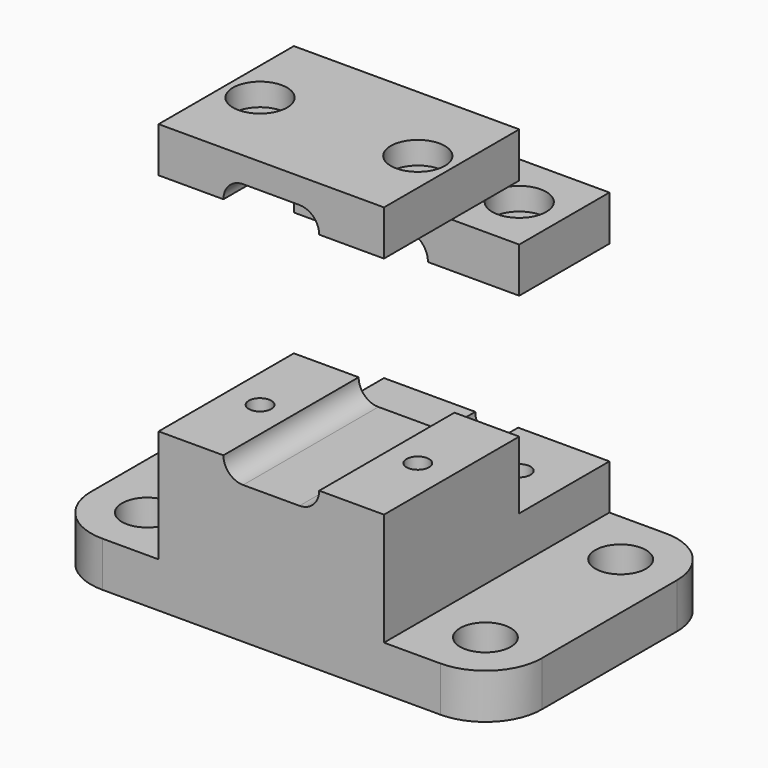
from build123d import *

# Parameters (mm, degrees)
F0_W              = 40
F0_H              = 25
F1_DEPTH          = 4
F2_D              = 4.5
F2_DEPTH          = 50
F2_TIP            = 1.3519363928
F3_W              = 20
F3_H              = 25
F4_DEPTH          = 10
F6_DEPTH          = 10
F8_W              = 20
F8_H              = 10
F9_DEPTH          = 4
F10_R             = 1.9
F11_DEPTH         = 10
F13_D             = 2
F13_DEPTH         = 50
F13_CBORE_D       = 4.8
F13_CBORE_DEPTH   = 2
F13_TIP           = 0.600860619
F13_2_D           = 2
F13_2_DEPTH       = 50
F13_2_CBORE_D     = 4.8
F13_2_CBORE_DEPTH = 2
F13_2_TIP         = 0.600860619
F15_W             = 20
F15_H             = 15
F16_DEPTH         = 4
F18_DEPTH         = 25
F20_D             = 2
F20_DEPTH         = 50
F20_CBORE_D       = 4.8
F20_CBORE_DEPTH   = 2
F20_TIP           = 0.600860619
F20_2_D           = 2
F20_2_DEPTH       = 50
F20_2_CBORE_D     = 4.8
F20_2_CBORE_DEPTH = 2
F20_2_TIP         = 0.600860619
F21_R             = 5


with BuildPart() as f1:
    # F0 (on Top) → F1 (new body)
    with BuildSketch(Plane.XY):
        Rectangle(F0_W, F0_H)
    extrude(amount=F1_DEPTH)

    # F2
    with Locations(Plane(origin=(0, 0, 0), x_dir=(1, 0, 0), z_dir=(0, 0, -1))):
        with Locations((-15, -7.5), (-15, 7.5), (15, 7.5), (15, -7.5)):
            Hole(F2_D / 2, depth=F2_DEPTH)
            with Locations((0, 0, -(F2_DEPTH + F2_TIP / 2))):  # 118° drill point
                Cone(0, F2_D / 2, F2_TIP, mode=Mode.SUBTRACT)

    # F3 (on face) → F4 (join)
    with BuildSketch(Plane.XY.offset(4)):
        Rectangle(F3_W, F3_H)
    extrude(amount=F4_DEPTH)

    # F5 (on face) → F6 (cut)
    with BuildSketch(Plane(origin=(0, 12.5, 0), x_dir=(-1, 0, 0), z_dir=(0, 1, 0))):
        with BuildLine():
            ThreePointArc((-1.9, 8), (0, 9.9), (1.9, 8))
            Line((1.9, 8), (10, 8))
            Line((10, 8), (10, 14))
            Line((10, 14), (-10, 14))
            Line((-10, 14), (-10, 8))
            Line((-10, 8), (-1.9, 8))
        make_face()
        with BuildLine():
            Line((-1.9, 8), (1.9, 8))
            ThreePointArc((1.9, 8), (0, 9.9), (-1.9, 8))
        make_face()
        with BuildLine():
            ThreePointArc((-1.9, 8), (0, 6.1), (1.9, 8))
            Line((1.9, 8), (-1.9, 8))
        make_face()
    extrude(amount=-F6_DEPTH, mode=Mode.SUBTRACT)

    # F13
    with Locations(Plane.XY.offset(29)):
        with Locations((-6, 7.5), (6, 7.5)):
            CounterBoreHole(F13_D / 2, F13_CBORE_D / 2, F13_CBORE_DEPTH, depth=F13_DEPTH)
            with Locations((0, 0, -(F13_DEPTH + F13_TIP / 2))):  # 118° drill point
                Cone(0, F13_D / 2, F13_TIP, mode=Mode.SUBTRACT)


with BuildPart() as f9:
    # F8 (on offset) → F9 (new body)
    with BuildSketch(Plane.XY.offset(25)):
        with Locations((0, 7.5)):
            Rectangle(F8_W, F8_H)
    extrude(amount=F9_DEPTH)

    # F10 (on face) → F11 (cut, through all)
    with BuildSketch(Plane(origin=(0, 12.5, 0), x_dir=(-1, 0, 0), z_dir=(0, 1, 0))):
        with Locations((0, 25)):
            Circle(F10_R)
    extrude(amount=-F11_DEPTH, mode=Mode.SUBTRACT)

    # F13#2
    with Locations(Plane.XY.offset(29)):
        with Locations((-6, 7.5), (6, 7.5)):
            CounterBoreHole(F13_2_D / 2, F13_2_CBORE_D / 2, F13_2_CBORE_DEPTH, depth=F13_2_DEPTH)
            with Locations((0, 0, -(F13_2_DEPTH + F13_2_TIP / 2))):  # 118° drill point
                Cone(0, F13_2_D / 2, F13_2_TIP, mode=Mode.SUBTRACT)


with BuildPart() as f16:
    # F15 (on offset) → F16 (new body)
    with BuildSketch(Plane.XY.offset(34)):
        with Locations((0, -5)):
            Rectangle(F15_W, F15_H)
    extrude(amount=F16_DEPTH)


with BuildPart() as f18_tool:
    # F17 (on face) → F18 (new body)
    with BuildSketch(Plane.XZ.offset(12.5)):
        with BuildLine():
            ThreePointArc((-2.5, 35.75), (-3.7374368671, 35.2374368671), (-4.25, 34))
            Line((-4.25, 34), (4.25, 34))
            ThreePointArc((4.25, 34), (3.7374368671, 35.2374368671), (2.5, 35.75))
            Line((2.5, 35.75), (-2.5, 35.75))
        make_face()
        with BuildLine():
            ThreePointArc((-2.5, 15.75), (-4.25, 14), (-2.5, 12.25))
            Line((-2.5, 12.25), (2.5, 12.25))
            ThreePointArc((2.5, 12.25), (4.25, 14), (2.5, 15.75))
            Line((2.5, 15.75), (-2.5, 15.75))
        make_face()
    extrude(amount=-F18_DEPTH)


with BuildPart() as f1_1:
    add(f1.part)

    # F18: cut by f18_tool
    add(f18_tool.part, mode=Mode.SUBTRACT)

    # F20
    with Locations(Plane.XY.offset(38)):
        with Locations((-7, -5), (7, -5)):
            CounterBoreHole(F20_D / 2, F20_CBORE_D / 2, F20_CBORE_DEPTH, depth=F20_DEPTH)
            with Locations((0, 0, -(F20_DEPTH + F20_TIP / 2))):  # 118° drill point
                Cone(0, F20_D / 2, F20_TIP, mode=Mode.SUBTRACT)

    # F21
    f21_edges = [f1_1.edges().sort_by_distance(p)[0] for p in [
        (-20, 12.5, 2),
        (-20, -12.5, 2),
        (20, -12.5, 2),
        (20, 12.5, 2),
    ]]
    fillet(f21_edges, radius=F21_R)


with BuildPart() as f16_1:
    add(f16.part)

    # F18: cut by f18_tool
    add(f18_tool.part, mode=Mode.SUBTRACT)

    # F20#2
    with Locations(Plane.XY.offset(38)):
        with Locations((-7, -5), (7, -5)):
            CounterBoreHole(F20_2_D / 2, F20_2_CBORE_D / 2, F20_2_CBORE_DEPTH, depth=F20_2_DEPTH)
            with Locations((0, 0, -(F20_2_DEPTH + F20_2_TIP / 2))):  # 118° drill point
                Cone(0, F20_2_D / 2, F20_2_TIP, mode=Mode.SUBTRACT)


solid = Compound([f9.part, f1_1.part, f16_1.part])
